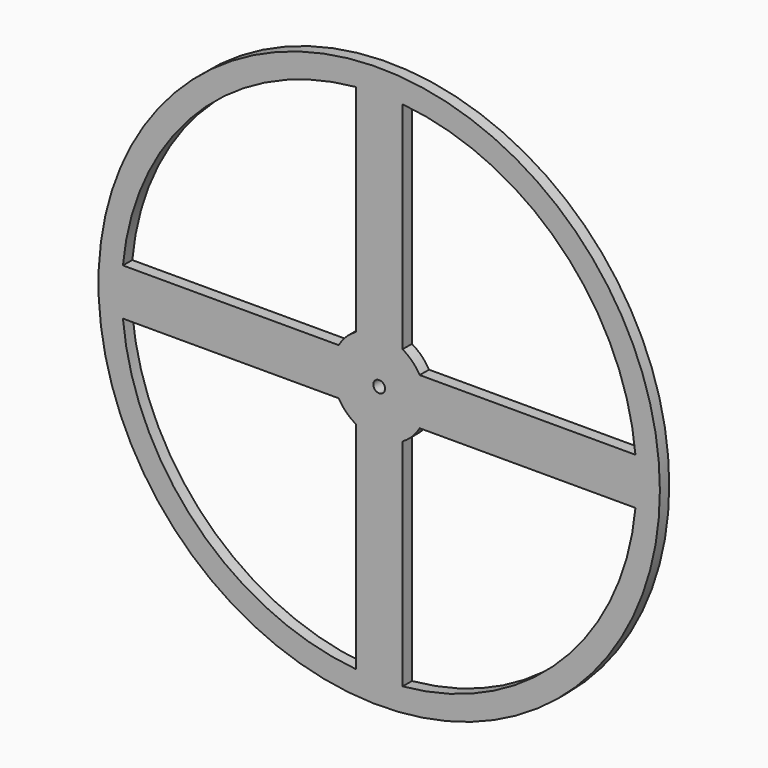
from build123d import *

# Parameters (mm, degrees)
F0_R     = 76.2
F0_R_2   = 1.5875
F1_DEPTH = 3.175


with BuildPart() as f1:
    # F0 (on Front) → F1 (new body)
    with BuildSketch(Plane.XZ):
        Circle(F0_R)
        with BuildLine():
            Line((-69.560765, -6.35), (-10.998523, -6.35))
            ThreePointArc((-10.998523, -6.35), (-8.980256, -8.980256), (-6.35, -10.998523))
            Line((-6.35, -10.998523), (-6.35, -69.560765))
            ThreePointArc((-6.35, -69.560765), (-49.391409, -49.391409), (-69.560765, -6.35))
        make_face(mode=Mode.SUBTRACT)
        with BuildLine():
            Line((6.35, -69.560765), (6.35, -10.998523))
            ThreePointArc((6.35, -10.998523), (8.980256, -8.980256), (10.998523, -6.35))
            Line((10.998523, -6.35), (69.560765, -6.35))
            ThreePointArc((69.560765, -6.35), (49.391409, -49.391409), (6.35, -69.560765))
        make_face(mode=Mode.SUBTRACT)
        with BuildLine():
            ThreePointArc((-69.560765, 6.35), (-49.391409, 49.391409), (-6.35, 69.560765))
            Line((-6.35, 69.560765), (-6.35, 10.998523))
            ThreePointArc((-6.35, 10.998523), (-8.980256, 8.980256), (-10.998523, 6.35))
            Line((-10.998523, 6.35), (-69.560765, 6.35))
        make_face(mode=Mode.SUBTRACT)
        Circle(F0_R_2, mode=Mode.SUBTRACT)
        with BuildLine():
            Line((6.35, 10.998523), (6.35, 69.560765))
            ThreePointArc((6.35, 69.560765), (49.391409, 49.391409), (69.560765, 6.35))
            Line((69.560765, 6.35), (10.998523, 6.35))
            ThreePointArc((10.998523, 6.35), (8.980256, 8.980256), (6.35, 10.998523))
        make_face(mode=Mode.SUBTRACT)
    extrude(amount=F1_DEPTH)


solid = f1.part
